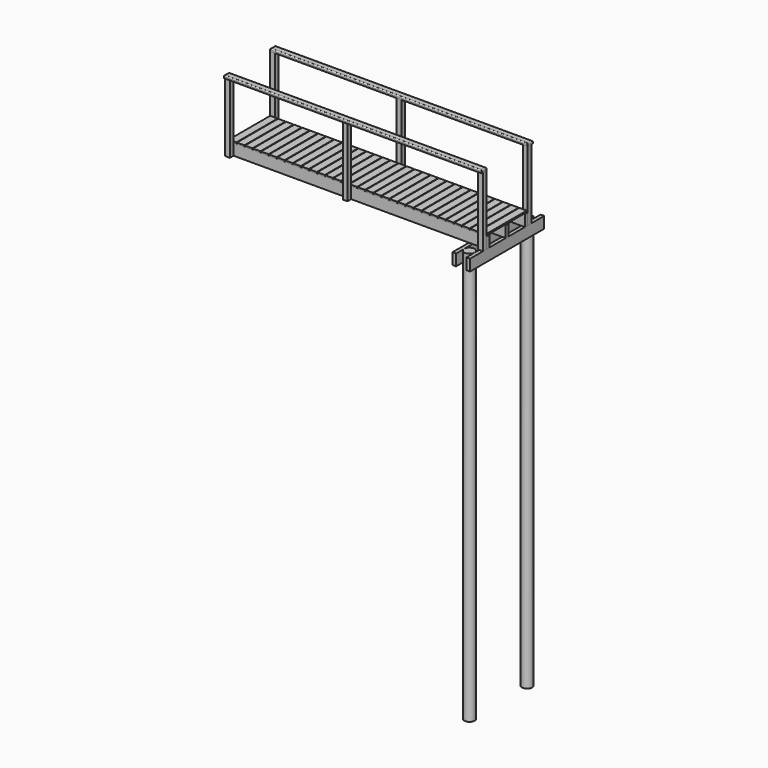
from build123d import *

# Parameters (mm, degrees)
F0_R      = 100
F2_DEPTH  = 8000
F1_W      = 70
F1_H      = 1800
F3_DEPTH  = 220
F4_W      = 5000
F4_H      = 70
F5_DEPTH  = 220
F6_W      = 145
F6_H      = 1000
F7_DEPTH  = 27
F8_W      = 90
F8_H      = 1347
F9_DEPTH  = 90
F10_W     = 90
F10_H     = 1347
F11_DEPTH = 90
F12_W     = 5000
F12_H     = 125
F13_DEPTH = 50
F14_R     = 20


with BuildPart() as f2:
    # F0 (on Top) → F2 (new body)
    with BuildSketch(Plane.XY):
        with Locations((-387.324933, 554.23081)):
            Circle(F0_R)
        with Locations((-387.324933, -845.76919)):
            Circle(F0_R)
    extrude(amount=-F2_DEPTH)


with BuildPart() as f3:
    # F1 (on Top) → F3 (new body)
    with BuildSketch(Plane.XY):
        with Locations((-522.324933, -145.76919)):
            Rectangle(F1_W, F1_H)
        with Locations((-250.722097, -145.76919)):
            Rectangle(F1_W, F1_H)
    extrude(amount=-F3_DEPTH)


with BuildPart() as f5:
    # F4 (on Top) → F5 (new body)
    with BuildSketch(Plane.XY):
        with Locations((-2715.722097, 319.23081)):
            Rectangle(F4_W, F4_H)
        with Locations((-2715.722097, -610.76919)):
            Rectangle(F4_W, F4_H)
        with Locations((-2715.722097, -145.76919)):
            Rectangle(F4_W, F4_H)
    extrude(amount=F5_DEPTH)


with BuildPart() as f7:
    # F6 (on face) → F7 (new body)
    with BuildSketch(Plane.XY.offset(220)):
        with Locations((-5143.222097, -145.76919)):
            Rectangle(F6_W, F6_H)
        with Locations((-4987.222097, -145.76919)):
            Rectangle(F6_W, F6_H)
        with Locations((-4831.222097, -145.76919)):
            Rectangle(F6_W, F6_H)
        with Locations((-4675.222097, -145.76919)):
            Rectangle(F6_W, F6_H)
        with Locations((-4519.222097, -145.76919)):
            Rectangle(F6_W, F6_H)
        with Locations((-4363.222097, -145.76919)):
            Rectangle(F6_W, F6_H)
        with Locations((-4207.222097, -145.76919)):
            Rectangle(F6_W, F6_H)
        with Locations((-4051.222097, -145.76919)):
            Rectangle(F6_W, F6_H)
        with Locations((-3895.222097, -145.76919)):
            Rectangle(F6_W, F6_H)
        with Locations((-3739.222097, -145.76919)):
            Rectangle(F6_W, F6_H)
        with Locations((-3583.222097, -145.76919)):
            Rectangle(F6_W, F6_H)
        with Locations((-3427.222097, -145.76919)):
            Rectangle(F6_W, F6_H)
        with Locations((-3271.222097, -145.76919)):
            Rectangle(F6_W, F6_H)
        with Locations((-3115.222097, -145.76919)):
            Rectangle(F6_W, F6_H)
        with Locations((-2959.222097, -145.76919)):
            Rectangle(F6_W, F6_H)
        with Locations((-2803.222097, -145.76919)):
            Rectangle(F6_W, F6_H)
        with Locations((-2647.222097, -145.76919)):
            Rectangle(F6_W, F6_H)
        with Locations((-2491.222097, -145.76919)):
            Rectangle(F6_W, F6_H)
        with Locations((-2335.222097, -145.76919)):
            Rectangle(F6_W, F6_H)
        with Locations((-2179.222097, -145.76919)):
            Rectangle(F6_W, F6_H)
        with Locations((-2023.222097, -145.76919)):
            Rectangle(F6_W, F6_H)
        with Locations((-1867.222097, -145.76919)):
            Rectangle(F6_W, F6_H)
        with Locations((-1711.222097, -145.76919)):
            Rectangle(F6_W, F6_H)
        with Locations((-1555.222097, -145.76919)):
            Rectangle(F6_W, F6_H)
        with Locations((-1399.222097, -145.76919)):
            Rectangle(F6_W, F6_H)
        with Locations((-1243.222097, -145.76919)):
            Rectangle(F6_W, F6_H)
        with Locations((-1087.222097, -145.76919)):
            Rectangle(F6_W, F6_H)
        with Locations((-931.222097, -145.76919)):
            Rectangle(F6_W, F6_H)
        with Locations((-775.222097, -145.76919)):
            Rectangle(F6_W, F6_H)
        with Locations((-619.222097, -145.76919)):
            Rectangle(F6_W, F6_H)
        with Locations((-463.222097, -145.76919)):
            Rectangle(F6_W, F6_H)
        with Locations((-307.222097, -145.76919)):
            Rectangle(F6_W, F6_H)
    extrude(amount=F7_DEPTH)


with BuildPart() as f9:
    # F8 (on face) → F9 (new body)
    with BuildSketch(Plane.XZ.offset(645.76919)):
        with Locations((-5170.722097, 673.5)):
            Rectangle(F8_W, F8_H)
        with Locations((-260.722097, 673.5)):
            Rectangle(F8_W, F8_H)
        with Locations((-2887.324933, 673.5)):
            Rectangle(F8_W, F8_H)
    extrude(amount=F9_DEPTH)


with BuildPart() as f11:
    # F10 (on face) → F11 (new body)
    with BuildSketch(Plane(origin=(0, 354.23081, 0), x_dir=(-1, 0, 0), z_dir=(0, 1, 0))):
        with Locations((5170.722097, 673.5)):
            Rectangle(F10_W, F10_H)
        with Locations((2715.722097, 673.5)):
            Rectangle(F10_W, F10_H)
        with Locations((260.722097, 673.5)):
            Rectangle(F10_W, F10_H)
    extrude(amount=F11_DEPTH)


with BuildPart() as f13:
    # F12 (on face) → F13 (new body)
    with BuildSketch(Plane.XY.offset(1347)):
        with Locations((-2715.722097, 416.73081)):
            Rectangle(F12_W, F12_H)
        with Locations((-2715.722097, -708.26919)):
            Rectangle(F12_W, F12_H)
    extrude(amount=F13_DEPTH)

    # F14
    f14_edges = [f13.edges().sort_by_distance(p)[0] for p in [
        (-2715.722097, 479.23081, 1397),
        (-2715.722097, -770.76919, 1397),
        (-5215.722097, -708.26919, 1397),
        (-2715.722097, 354.23081, 1397),
        (-5215.722097, 416.73081, 1397),
        (-215.722097, 416.73081, 1397),
        (-2715.722097, -645.76919, 1397),
        (-215.722097, -708.26919, 1397),
    ]]
    fillet(f14_edges, radius=F14_R)


solid = Compound([f2.part, f3.part, f5.part, f7.part, f9.part, f11.part, f13.part])
